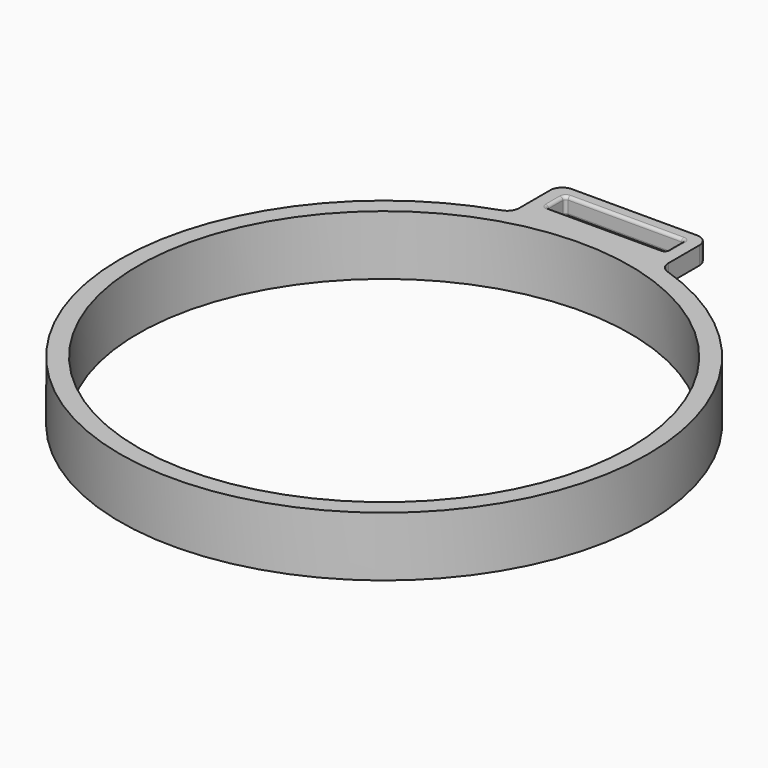
from build123d import *

# Parameters (mm, degrees)
F0_R     = 44.25
F1_DEPTH = 10
F2_R     = 41.25
F3_DEPTH = 15
F5_DEPTH = 3
F6_W     = 20
F6_H     = 4
F7_DEPTH = 25
F8_R     = 2
F9_R     = 0.5


with BuildPart() as f1:
    # F0 (on Top) → F1 (new body)
    with BuildSketch(Plane.XY):
        Circle(F0_R)
    extrude(amount=F1_DEPTH)

    # F2 (on face) → F3 (cut)
    with BuildSketch(Plane.XY.offset(10)):
        Circle(F2_R)
    extrude(amount=-F3_DEPTH, mode=Mode.SUBTRACT)

    # F4 (on face) → F5 (join)
    with BuildSketch(Plane.XY.offset(10)):
        with BuildLine():
            Line((12.5, 52.447762014), (-12.5, 52.447762014))
            Line((-12.5, 52.447762014), (-12.5, 42.447762014))
            ThreePointArc((-12.5, 42.447762014), (0, 44.25), (12.5, 42.447762014))
            Line((12.5, 42.447762014), (12.5, 52.447762014))
        make_face()
    extrude(amount=-F5_DEPTH)

    # F6 (on face) → F7 (cut)
    with BuildSketch(Plane.XY.offset(10)):
        with Locations((0, 48.447762014)):
            Rectangle(F6_W, F6_H)
    extrude(amount=-F7_DEPTH, mode=Mode.SUBTRACT)

    # F8
    f8_edges = [f1.edges().sort_by_distance(p)[0] for p in [
        (0, 44.25, 7),
        (12.5, 42.447762, 8.5),
        (12.5, 52.447762, 8.5),
        (-12.5, 42.447762, 8.5),
        (-12.5, 52.447762, 8.5),
    ]]
    fillet(f8_edges, radius=F8_R)

    # F9
    f9_edges = [f1.edges().sort_by_distance(p)[0] for p in [
        (0, 46.447762, 10),
        (10, 46.447762, 8.5),
        (0, 46.447762, 7),
        (-10, 46.447762, 8.5),
        (-10, 48.447762, 10),
        (-10, 48.447762, 7),
        (-10, 50.447762, 8.5),
        (0, 50.447762, 10),
        (0, 50.447762, 7),
        (10, 50.447762, 8.5),
        (10, 48.447762, 10),
        (10, 48.447762, 7),
    ]]
    fillet(f9_edges, radius=F9_R)


solid = f1.part
